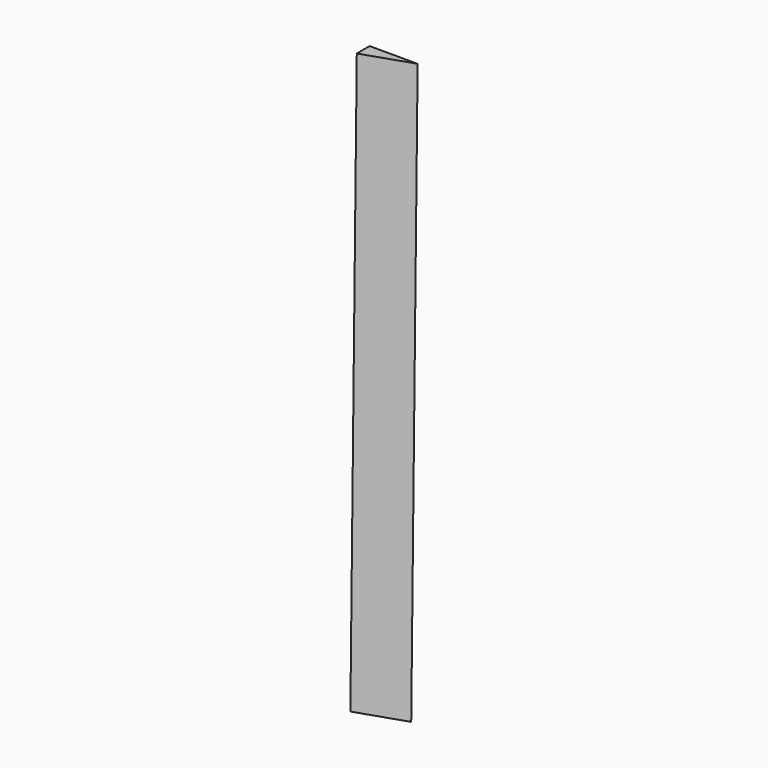
from build123d import *


with BuildPart() as f2:
    # F2: sweep along a path in F1
    with BuildLine(Plane.YZ) as f2_path:
        Line((0, 0), (-100, -7194.305039))
    # F0 (on Top) → F2 (sweep)
    with BuildSketch(Plane.XY):
        Polygon((600, 0), (0, 0), (0, -200), align=None)
    sweep(path=f2_path.line)


solid = f2.part
